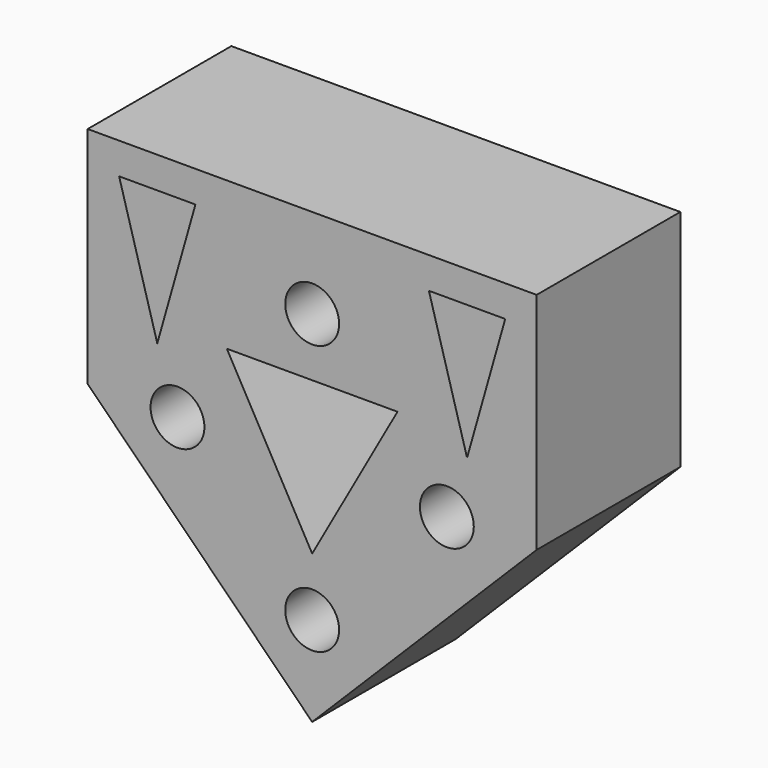
from build123d import *

# Parameters (mm, degrees)
F0_W     = 50
F0_H     = 50
F0_R     = 3
F1_DEPTH = 20
F3_DEPTH = 20.001


with BuildPart() as f1:
    # F0 (on Front) → F1 (new body)
    with BuildSketch(Plane.XZ):
        Rectangle(F0_W, F0_H)
        with Locations((0, -15)):
            Circle(F0_R, mode=Mode.SUBTRACT)
        with Locations((-15, 0)):
            Circle(F0_R, mode=Mode.SUBTRACT)
        with Locations((15, 0)):
            Circle(F0_R, mode=Mode.SUBTRACT)
        with Locations((0, 15)):
            Circle(F0_R, mode=Mode.SUBTRACT)
    extrude(amount=F1_DEPTH)

    # F2 (on face) → F3 (cut, through all)
    with BuildSketch(Plane(origin=(0, 0, 0), x_dir=(-1, 0, 0), z_dir=(0, 1, 0))):
        Polygon((-13, 21.5), (-21.5, 21.5), (-17.25, 6.5), align=None)
        Polygon((0, -8.5), (9.5, 8.5), (-9.5, 8.5), align=None)
        Polygon((21.5, 21.5), (13, 21.5), (17.25, 6.5), align=None)
        Polygon((-25, -25), (0, -25), (-25, 0), align=None)
        Polygon((25, 0), (0, -25), (25, -25), align=None)
    extrude(amount=-F3_DEPTH, mode=Mode.SUBTRACT)


solid = f1.part
